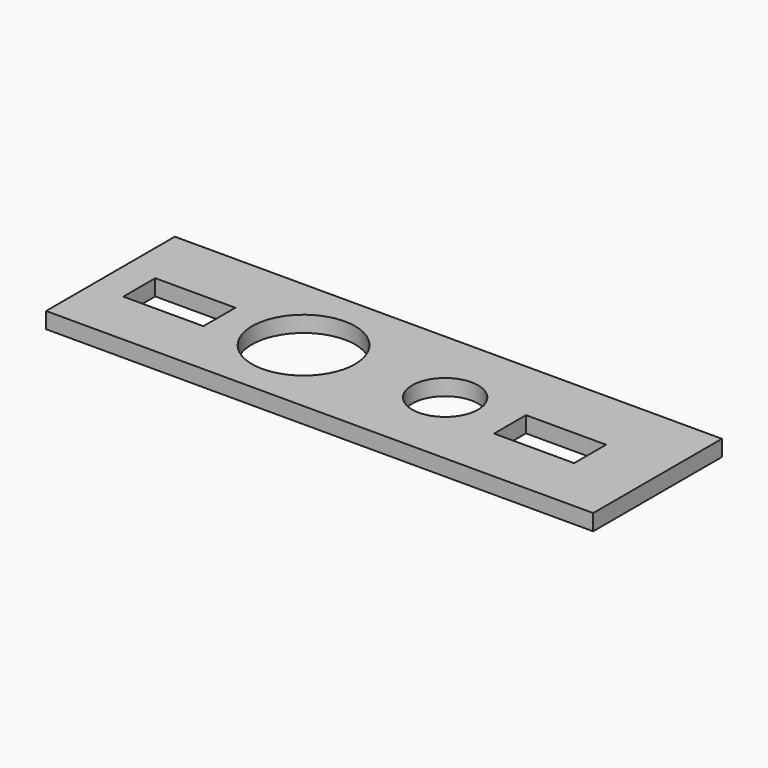
from build123d import *

# Parameters (mm, degrees)
F0_W     = 107.95
F0_H     = 31.75
F0_W_2   = 15.7988
F0_H_2   = 7.874
F0_R     = 10.16
F0_R_2   = 6.5024
F1_DEPTH = 3.175


with BuildPart() as f1:
    # F0 (on Top) → F1 (new body)
    with BuildSketch(Plane.XY):
        with Locations((-12.065, -3.762827)):
            Rectangle(F0_W, F0_H)
        with Locations((-51.8414, -4.524827)):
            Rectangle(F0_W_2, F0_H_2, mode=Mode.SUBTRACT)
        with Locations((-27.94, -3.762827)):
            Circle(F0_R, mode=Mode.SUBTRACT)
        with Locations((21.3106, -4.524827)):
            Rectangle(F0_W_2, F0_H_2, mode=Mode.SUBTRACT)
        with Locations((0, -3.762827)):
            Circle(F0_R_2, mode=Mode.SUBTRACT)
    extrude(amount=-F1_DEPTH)


solid = f1.part
